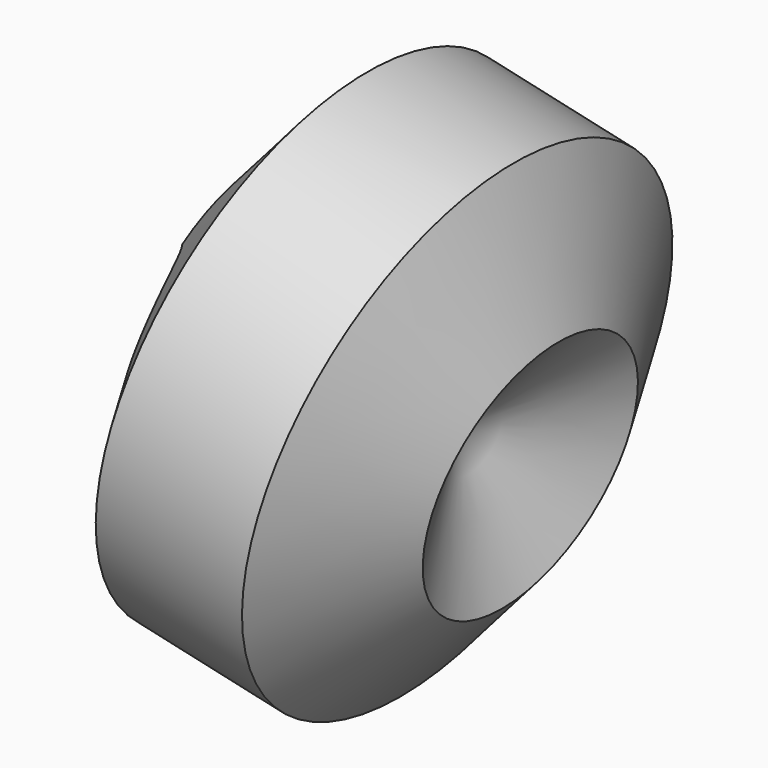
from build123d import *

# Parameters (mm, degrees)
F2_R     = 17.3084147979
F2_R_2   = 9.8858681408
F2_R_3   = 11.8408403521
F2_R_4   = 33.563848705
F3_DEPTH = 77.9319693274
F4_W     = 15.939405188
F4_H     = 86.4525958896
F5_DEPTH = 77.9319694274


with BuildPart() as f1:
    # F0 (on Front) → F1 (revolve)
    with BuildSketch(Plane.XZ):
        Polygon((23.8796671181, -76.2), (77.9309693274, -17.4196016418), (54.0513022093, 58.7803983582), (-23.8796671181, 76.2), (-77.9309693274, 17.4196016418), (-54.0513022093, -58.7803983582), align=None)
    revolve(axis=Axis((15.0858175456, 0, 67.4901991791), (0.9759168522, 0, -0.2181428378)))

    # F2 (on Right) → F3 (cut, through all)
    with BuildSketch(Plane.YZ):
        with Locations((77.9518336058, 37.3855829239)):
            Circle(F2_R)
        with Locations((31.3565693796, 10.4093803093)):
            Circle(F2_R_2)
        with Locations((-56.9291785359, 19.605813548)):
            Circle(F2_R_3)
        with Locations((-67.351795733, 102.3737117648)):
            Circle(F2_R_4)
    extrude(amount=-F3_DEPTH, mode=Mode.SUBTRACT)

    # F4 (on Right) → F5 (cut, through all)
    with BuildSketch(Plane.YZ):
        with Locations((-33.2528958097, 43.2262979448)):
            Rectangle(F4_W, F4_H)
    extrude(amount=-F5_DEPTH, mode=Mode.SUBTRACT)


solid = f1.part
